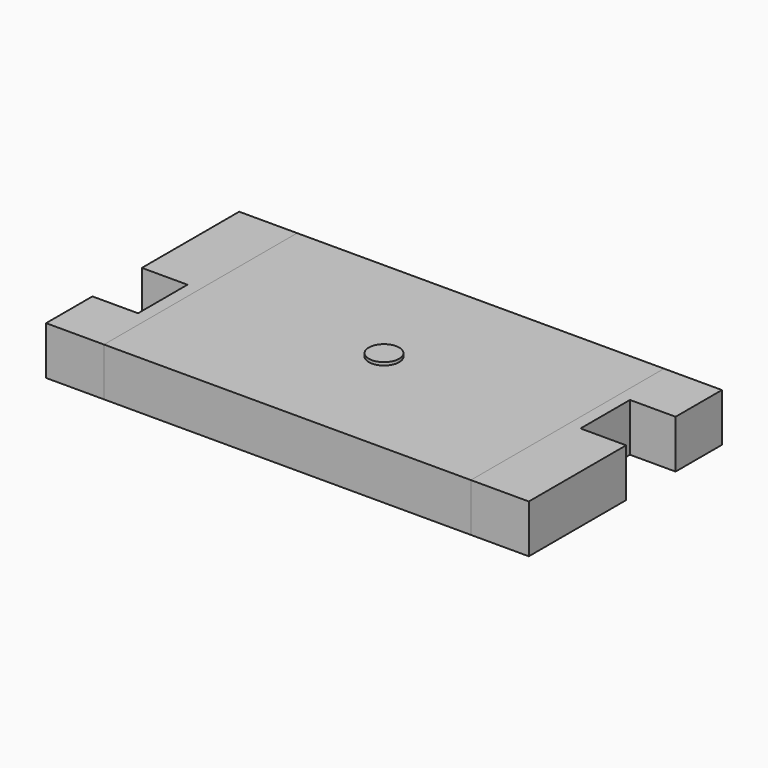
from build123d import *

# Parameters (mm, degrees)
SKETCH001_W  = 4.826
SKETCH001_H  = 3.175
PAD_DEPTH    = 0.635
PAD001_DEPTH = 0.635
ARRAY_COUNT  = 2
ARRAY_ANGLE  = 180
SKETCH002_R  = 0.2
PAD002_DEPTH = 0.04


with BuildPart() as body:
    # Sketch001 → Pad (new body)
    with BuildSketch(Plane.XY):
        Rectangle(SKETCH001_W, SKETCH001_H)
    extrude(amount=PAD_DEPTH)


with BuildPart() as array:
    # Sketch → Pad001 (new body)
    with BuildSketch(Plane.XY):
        Polygon((2.413, -1.5875), (2.413, 1.5875), (3.175, 1.5875), (3.175, 0.8255), (2.575, 0.8255), (2.575, 0.0125), (3.175, 0.0125), (3.175, -1.5875), align=None)
    extrude(amount=PAD001_DEPTH)

    # Array: Array ×2 about axis
    array_axis = Axis((0, 0, 0), (0, 0, 1))


with BuildPart() as array_1:
    add(array.part)
    for i in range(1, ARRAY_COUNT):
        add(array.part.rotate(array_axis, i * ARRAY_ANGLE / (ARRAY_COUNT - 1)))


with BuildPart() as marker:
    # Sketch002 → Pad002 (new body)
    with BuildSketch(Plane.XY.offset(0.635)):
        Circle(SKETCH002_R)
    extrude(amount=PAD002_DEPTH)


solid = Compound([body.part, array_1.part, marker.part])
